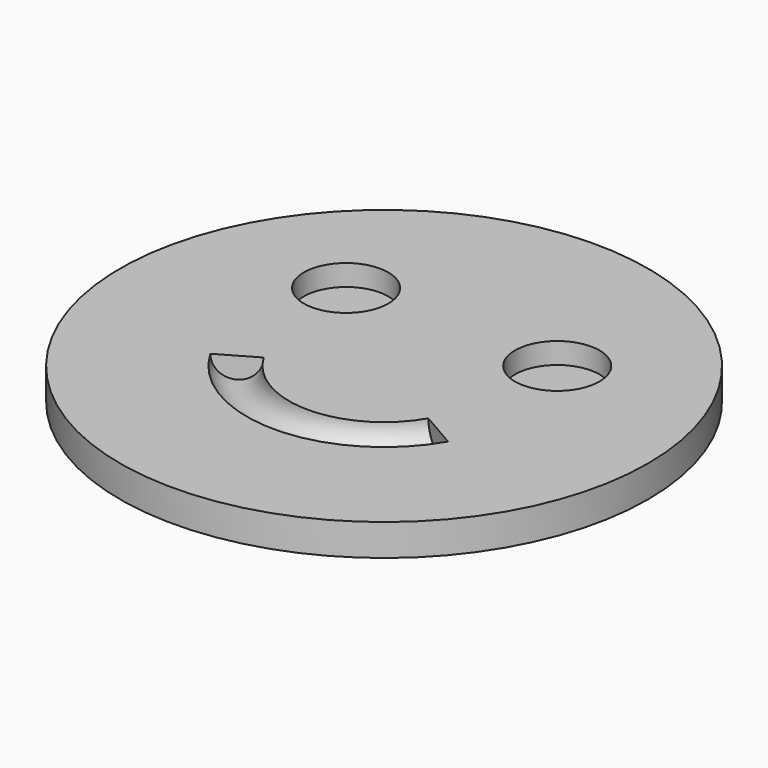
from build123d import *

# Parameters (mm, degrees)
TORUS_R               = 2
TORUS_ANGLE           = 120
TORUS_PLACEMENT_ANGLE = 210
CYLINDER002_R         = 4
CYLINDER002_DEPTH     = 10
CYLINDER001_R         = 4
CYLINDER001_DEPTH     = 10
CYLINDER_R            = 25
CYLINDER_DEPTH        = 3


with BuildPart() as boca:
    # Torus → Torus (revolve)
    with BuildSketch(Plane.XZ):
        with Locations((11, 0)):
            Circle(TORUS_R)
    revolve(axis=Axis((0, 0, 0), (0, 0, 1)), revolution_arc=TORUS_ANGLE)


with BuildPart() as boca_1:
    # Torus placement: moved
    add(boca.part.moved(Location((0, 0, 3))).rotate(Axis((0, 0, 3), (0, 0, 1)), TORUS_PLACEMENT_ANGLE))


with BuildPart() as obj1:
    # Cylinder002 → Cylinder002 (new body)
    with BuildSketch(Plane(origin=(10, 8, 0), x_dir=(1, 0, 0), z_dir=(0, 0, 1))):
        Circle(CYLINDER002_R)
    extrude(amount=CYLINDER002_DEPTH)


with BuildPart() as ojos:
    # Cylinder001 → Cylinder001 (new body)
    with BuildSketch(Plane(origin=(-10, 8, 0), x_dir=(1, 0, 0), z_dir=(0, 0, 1))):
        Circle(CYLINDER001_R)
    extrude(amount=CYLINDER001_DEPTH)

    # Fusion: union obj1
    add(obj1.part)


with BuildPart() as ojos_1:
    # Fusion placement: moved
    add(ojos.part.moved(Location((0, 0, 1))))


with BuildPart() as acid_house:
    # Cylinder → Cylinder (new body)
    with BuildSketch(Plane.XY):
        Circle(CYLINDER_R)
    extrude(amount=CYLINDER_DEPTH)

    # Cut: cut ojos
    add(ojos_1.part, mode=Mode.SUBTRACT)

    # Cut001: cut boca
    add(boca_1.part, mode=Mode.SUBTRACT)


solid = acid_house.part
